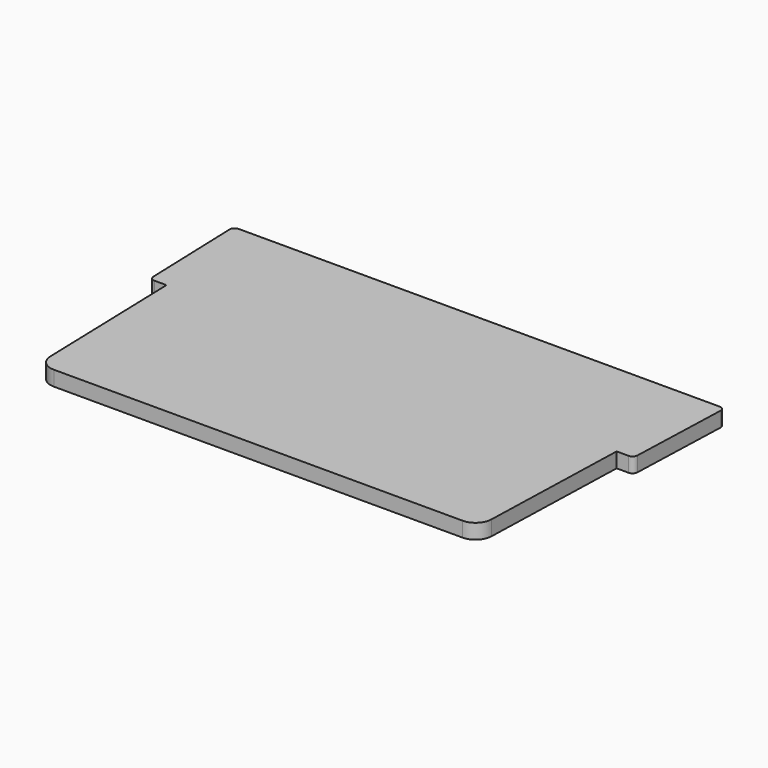
from build123d import *

# Parameters (mm, degrees)
F1_DEPTH = 1.524
F2_R     = 0.508
F3_R     = 1.651


with BuildPart() as f1:
    # F0 (on Top) → F1 (new body)
    with BuildSketch(Plane.XY):
        Polygon((-22.987, 17.018), (-22.479, 0), (22.479, 0), (22.987, 17.018), (24.7015, 17.018), (25.0825, 28.194), (-25.0825, 28.194), (-24.7015, 17.018), align=None)
    extrude(amount=F1_DEPTH)

    # F2
    f2_edges = [f1.edges().sort_by_distance(p)[0] for p in [
        (25.0825, 28.194, 0.762),
        (24.7015, 17.018, 0.762),
        (-25.0825, 28.194, 0.762),
        (-24.7015, 17.018, 0.762),
    ]]
    fillet(f2_edges, radius=F2_R)

    # F3
    f3_edges = [f1.edges().sort_by_distance(p)[0] for p in [
        (-22.479, 0, 0.762),
        (22.479, 0, 0.762),
    ]]
    fillet(f3_edges, radius=F3_R)


solid = f1.part
